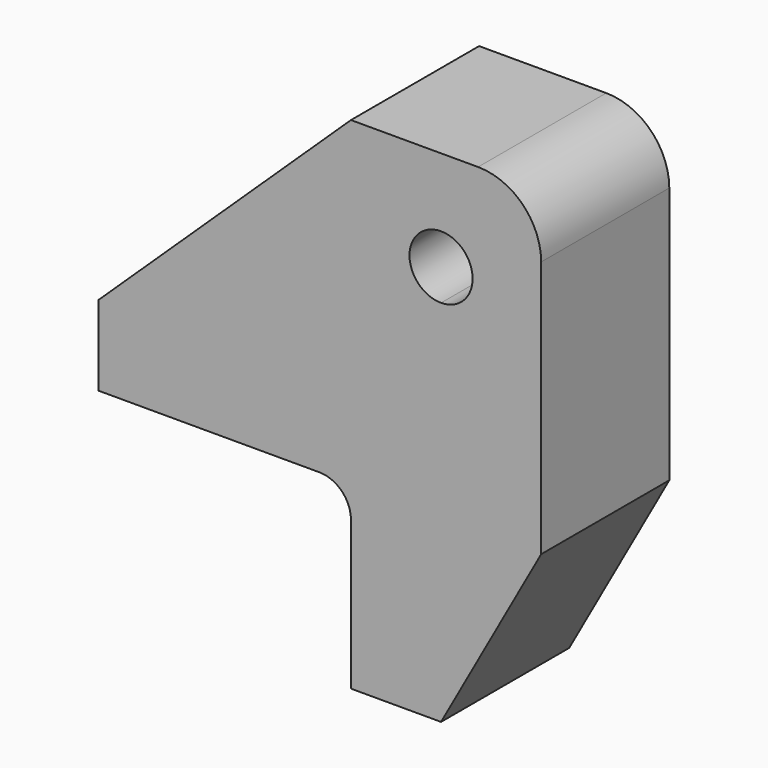
from build123d import *

# Parameters (mm, degrees)
F0_W     = 40
F0_H     = 12.7
F0_W_2   = 14.2875
F0_H_2   = 28.575
F1_DEPTH = 25.4
F2_R     = 10
F3_R     = 5


with BuildPart() as f1:
    # F0 (on Front) → F1 (new body)
    with BuildSketch(Plane.XZ):
        with BuildLine():
            Line((14.2875, 29.925), (14.2875, 0))
            Line((14.2875, 0), (30.1625, 0))
            Line((30.1625, 0), (30.1625, 50.8))
            Line((30.1625, 50.8), (14.2875, 50.8))
            Line((14.2875, 50.8), (14.2875, 39.925))
            ThreePointArc((14.2875, 39.925), (17.823034, 38.460534), (19.2875, 34.925))
            ThreePointArc((19.2875, 34.925), (17.823034, 31.389466), (14.2875, 29.925))
        make_face()
        with BuildLine():
            Line((0, 12.7), (0, 0))
            Line((0, 0), (14.2875, 0))
            Line((14.2875, 0), (14.2875, 29.925))
            ThreePointArc((14.2875, 29.925), (9.2875, 34.925), (14.2875, 39.925))
            Line((14.2875, 39.925), (14.2875, 50.8))
            Line((14.2875, 50.8), (0, 50.8))
            Line((0, 50.8), (0, 12.7))
        make_face()
        Polygon((-40, 12.7), (0, 12.7), (0, 50.8), align=None)
        with Locations((-20, 6.35)):
            Rectangle(F0_W, F0_H)
        with Locations((7.14375, -14.2875)):
            Rectangle(F0_W_2, F0_H_2)
        Polygon((30.1625, 0), (14.2875, 0), (14.2875, -28.575), align=None)
    extrude(amount=F1_DEPTH)

    # F2
    f2_edges = [f1.edges().sort_by_distance(p)[0] for p in [
        (30.1625, -12.7, 50.8),
    ]]
    fillet(f2_edges, radius=F2_R)

    # F3
    f3_edges = [f1.edges().sort_by_distance(p)[0] for p in [
        (0, -12.7, 0),
    ]]
    fillet(f3_edges, radius=F3_R)


solid = f1.part
